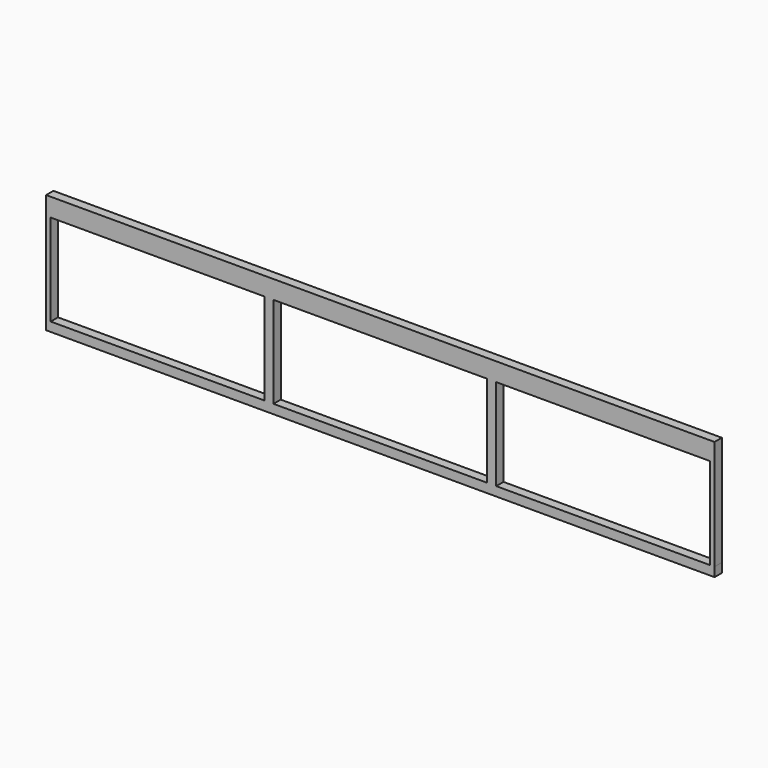
from build123d import *

# Parameters (mm, degrees)
F1_DEPTH = 20


with BuildPart() as f1:
    # F0 (on Front) → F1 (new body)
    with BuildSketch(Plane.XZ):
        Polygon((725.387353, 96.851042), (-734.612647, 96.851042), (-734.612647, 56.851042), (-734.612647, -143.148958), (-724.612647, -143.148958), (-724.612647, 56.851042), (-258.012647, 56.851042), (-258.012647, -143.148958), (-238.012647, -143.148958), (-238.012647, 56.851042), (228.587353, 56.851042), (228.587353, -143.148958), (248.587353, -143.148958), (248.587353, 56.851042), (715.387353, 56.851042), (715.387353, -143.148958), (725.387353, -143.148958), (725.387353, 56.851042), align=None)
        Polygon((-724.612647, -143.148958), (-734.612647, -143.148958), (-734.612647, -163.148958), (725.567341, -163.148958), (725.387353, -143.148958), (715.387353, -143.148958), (248.587353, -143.148958), (228.587353, -143.148958), (-238.012647, -143.148958), (-258.012647, -143.148958), align=None)
    extrude(amount=F1_DEPTH)


solid = f1.part
